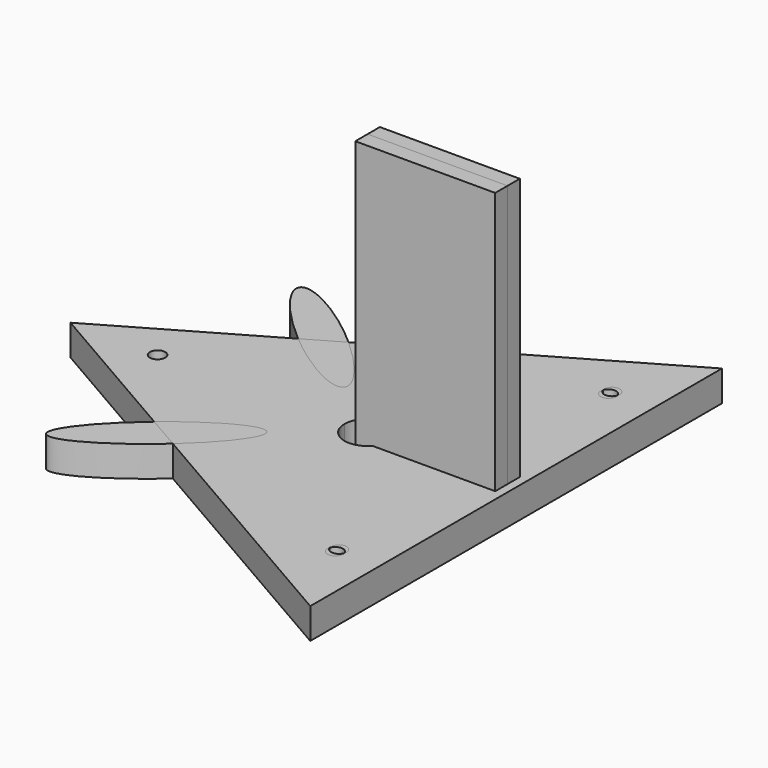
from build123d import *

# Parameters (mm, degrees)
F2_DEPTH  = 10
F3_D      = 5
F5_D      = 15
F7_DEPTH  = 10
F9_W      = 45.585658
F9_H      = 95.536649
F10_DEPTH = 5


with BuildPart() as f2:
    # F0 (on Top) → F2 (new body)
    with BuildSketch(Plane.XY):
        Polygon((48.382759, -83.801397), (48.382759, 83.801397), (-96.765518, 0), align=None)
    extrude(amount=F2_DEPTH)

    # F3 (through all)
    with Locations(Plane(origin=(0, 0, 0), x_dir=(1, 0, 0), z_dir=(0, 0, -1))):
        with Locations((34.553833, 56.347717), (34.553833, -54.857418), (-68.400823, 0)):
            Hole(F3_D / 2)

    # F5 (through all)
    with Locations(Plane(origin=(0, 0, 0), x_dir=(1, 0, 0), z_dir=(0, 0, -1))):
        with Locations((0, 0)):
            Hole(F5_D / 2)

    # F6 (on Top) → F7 (join)
    with BuildSketch(Plane.XY):
        with BuildLine():
            add(Edge.make_bspline(
                [(-63.340895, -51.710829), (-56.539959, -59.852008), (-27.619903, -28.781666), (1.300152, 2.288677), (-34.420839, -20.640487), (-70.141831, -43.56965), (-63.340895, -51.710829)],
                knots=[0, 0, 0, 2.094395, 2.094395, 4.18879, 4.18879, 6.283185, 6.283185, 6.283185], degree=2, weights=[1, 0.5, 1, 0.5, 1, 0.5, 1]))
        make_face()
    extrude(amount=F7_DEPTH)

    # F8: F2 across plane


with BuildPart() as f2_1:
    add(f2.part)
    add(f2.part.mirror(Plane.XZ))

    # F9 (on Front) → F10 (join)
    with BuildSketch(Plane.XZ):
        with Locations((22.792829, 47.768324)):
            Rectangle(F9_W, F9_H)
    extrude(amount=F10_DEPTH)

    # F11: F2 across plane


with BuildPart() as f2_2:
    add(f2_1.part)
    add(f2_1.part.mirror(Plane.XZ))


solid = f2_2.part
